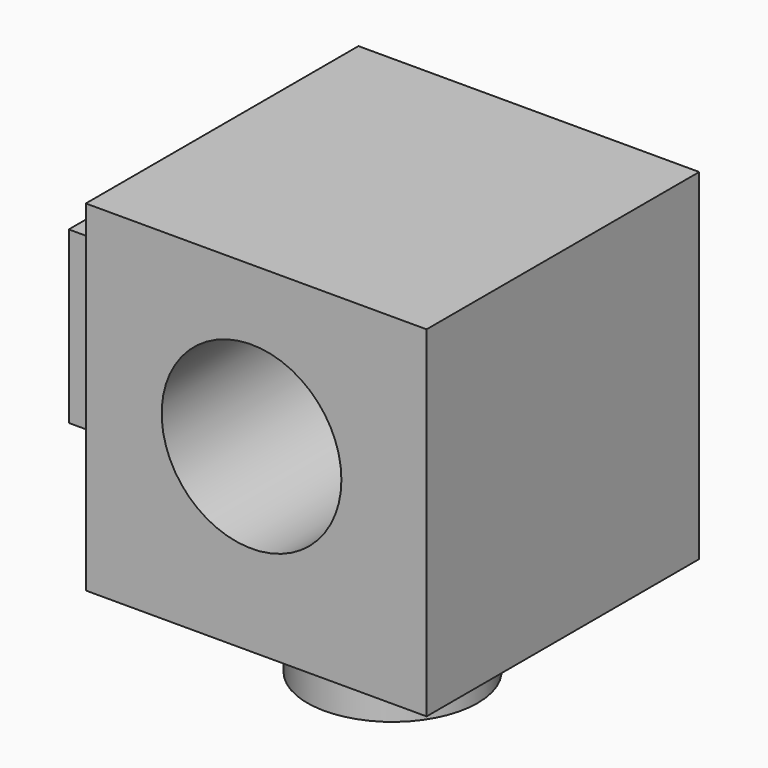
from build123d import *

# Parameters (mm, degrees)
F0_W     = 50.8
F0_H     = 50.8
F1_DEPTH = 50.8
F2_R     = 13.395396
F3_DEPTH = 61.722
F4_W     = 25.4
F4_H     = 25.4
F5_DEPTH = 12.7
F6_R     = 12.7
F7_DEPTH = 12.7


with BuildPart() as f1:
    # F0 (on Front) → F1 (new body)
    with BuildSketch(Plane.XZ):
        with Locations((-25.4, 25.4)):
            Rectangle(F0_W, F0_H)
    extrude(amount=F1_DEPTH)

    # F2 (on face) → F3 (cut)
    with BuildSketch(Plane.XZ.offset(50.8)):
        with Locations((-26.095396, 26.924606)):
            Circle(F2_R)
    extrude(amount=-F3_DEPTH, mode=Mode.SUBTRACT)

    # F4 (on face) → F5 (join)
    with BuildSketch(Plane(origin=(-50.8, 0, 0), x_dir=(0, -1, 0), z_dir=(-1, 0, 0))):
        with Locations((25.4, 25.4)):
            Rectangle(F4_W, F4_H)
    extrude(amount=F5_DEPTH)

    # F6 (on face) → F7 (join)
    with BuildSketch(Plane(origin=(0, 0, 0), x_dir=(1, 0, 0), z_dir=(0, 0, -1))):
        with Locations((-25.4, 25.4)):
            Circle(F6_R)
    extrude(amount=F7_DEPTH)


solid = f1.part
